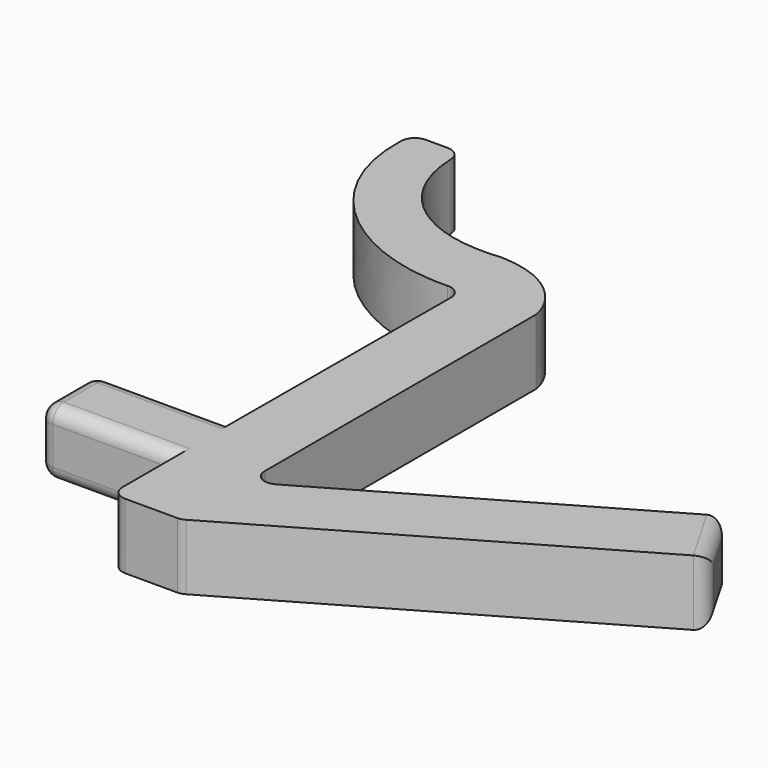
from build123d import *

# Parameters (mm, degrees)
F1_DEPTH = 4.7
F2_R     = 1
F3_R     = 1
F4_R     = 1
F5_R     = 1
F6_R     = 1
F7_R     = 1


with BuildPart() as f1:
    # F0 (on Top) → F1 (new body)
    with BuildSketch(Plane.XY):
        with BuildLine():
            Line((-37.863488, 16.59382), (-41.363488, 16.59382))
            add(Edge.make_bspline(
                [(-41.363488, 16.59382), (-42.3331, 8.407068), (-34.69845, 2.771639), (-27.401726, 3.610343)],
                knots=[0, 0, 0, 0, 19.065714, 19.065714, 19.065714, 19.065714], degree=3))
            Line((-27.401726, 3.610343), (-27.471585, -16.889538))
            Line((-27.471585, -16.889538), (-37.401726, -16.889538))
            Line((-37.401726, -16.889538), (-37.401726, -21.889538))
            Line((-37.401726, -21.889538), (-27.401726, -21.889538))
            Line((-27.401726, -21.889538), (-27.401726, -27.896906))
            Line((-27.401726, -27.896906), (-22.401726, -27.896906))
            Line((-22.401726, -27.896906), (-22.401726, -22.123403))
            Line((-22.401726, -22.123403), (-22.401726, 3.903857))
            add(Edge.make_bspline(
                [(-28.18239, 8.110343), (-23.64683, 7.929841), (-22.457497, 4.639071), (-22.401726, 3.903857)],
                knots=[0, 0, 0, 0, 7.149168, 7.149168, 7.149168, 7.149168], degree=3))
            add(Edge.make_bspline(
                [(-37.863488, 16.59382), (-38.216218, 11.538417), (-34.533153, 7.455524), (-28.18239, 8.110343)],
                knots=[0, 0, 0, 0, 12.87218, 12.87218, 12.87218, 12.87218], degree=3))
        make_face()
        Polygon((1.079036, -8.566779), (-22.401726, -22.123403), (-22.401726, -27.896906), (3.579036, -12.896906), align=None)
    extrude(amount=F1_DEPTH)

    # F2
    f2_edges = [f1.edges().sort_by_distance(p)[0] for p in [
        (-32.436655, -16.889538, 4.7),
        (-32.436655, -16.889538, 0),
        (-32.401726, -21.889538, 4.7),
        (-32.401726, -21.889538, 0),
    ]]
    fillet(f2_edges, radius=F2_R)

    # F3
    f3_edges = [f1.edges().sort_by_distance(p)[0] for p in [
        (-27.401726, -27.896906, 2.35),
        (-27.401726, 3.610343, 2.35),
    ]]
    fillet(f3_edges, radius=F3_R)

    # F4
    f4_edges = [f1.edges().sort_by_distance(p)[0] for p in [
        (-41.363488, 16.59382, 2.35),
        (-37.863488, 16.59382, 2.35),
    ]]
    fillet(f4_edges, radius=F4_R)

    # F5
    f5_edges = [f1.edges().sort_by_distance(p)[0] for p in [
        (-22.401726, -22.123403, 2.35),
        (1.079036, -8.566779, 2.35),
        (3.579036, -12.896906, 2.35),
        (2.329036, -10.731842, 0),
        (2.329036, -10.731842, 4.7),
    ]]
    fillet(f5_edges, radius=F5_R)

    # F6
    f6_edges = [f1.edges().sort_by_distance(p)[0] for p in [
        (-37.401726, -16.889538, 2.35),
        (-37.401726, -17.182431, 0.292893),
        (-37.401726, -17.182431, 4.407107),
        (-37.401726, -19.389538, 0),
        (-37.401726, -19.389538, 4.7),
        (-37.401726, -21.596644, 0.292893),
        (-37.401726, -21.596644, 4.407107),
        (-37.401726, -21.889538, 2.35),
    ]]
    fillet(f6_edges, radius=F6_R)

    # F7
    f7_edges = [f1.edges().sort_by_distance(p)[0] for p in [
        (-22.401726, -27.896906, 2.35),
    ]]
    fillet(f7_edges, radius=F7_R)


solid = f1.part
